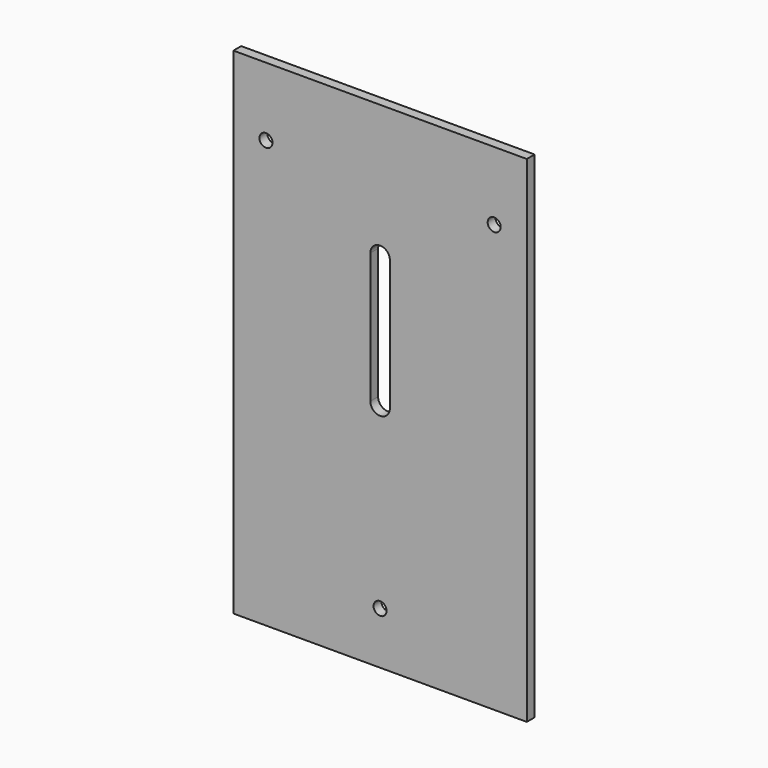
from build123d import *

# Parameters (mm, degrees)
F0_W     = 90
F0_H     = 152
F0_R     = 2
F1_DEPTH = 3


with BuildPart() as f1:
    # F0 (on Front) → F1 (new body)
    with BuildSketch(Plane.XZ):
        Rectangle(F0_W, F0_H)
        with Locations((0, -60)):
            Circle(F0_R, mode=Mode.SUBTRACT)
        with Locations((-35, 55)):
            Circle(F0_R, mode=Mode.SUBTRACT)
        with BuildLine():
            ThreePointArc((3, -5), (0, -8), (-3, -5))
            Line((-3, -5), (-3, 35))
            ThreePointArc((-3, 35), (0, 38), (3, 35))
            Line((3, 35), (3, -5))
        make_face(mode=Mode.SUBTRACT)
        with Locations((35, 55)):
            Circle(F0_R, mode=Mode.SUBTRACT)
    extrude(amount=F1_DEPTH)


solid = f1.part
